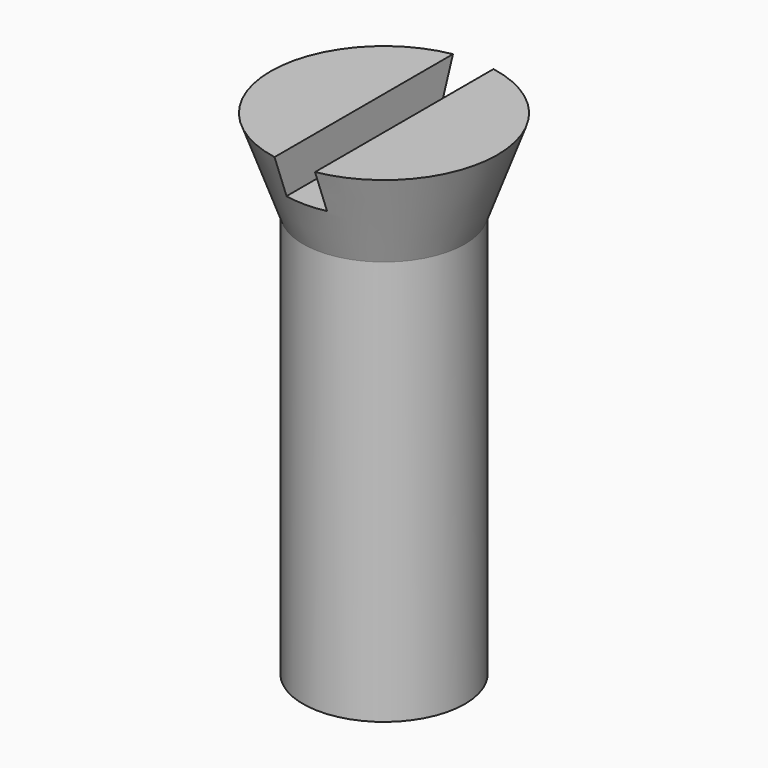
from build123d import *

# Parameters (mm, degrees)
CYLINDER_R     = 2
CYLINDER_DEPTH = 10
BOX_W          = 1
BOX_H          = 10
BOX_DEPTH      = 10


with BuildPart() as cilindre:
    # Cylinder → Cylinder (new body)
    with BuildSketch(Plane.XY):
        Circle(CYLINDER_R)
    extrude(amount=CYLINDER_DEPTH)


with BuildPart() as cub:
    # Box → Box (new body)
    with BuildSketch(Plane(origin=(-0.5, -4, 1.2), x_dir=(1, 0, 0), z_dir=(0, 0, 1))):
        with Locations((0.5, 5)):
            Rectangle(BOX_W, BOX_H)
    extrude(amount=BOX_DEPTH)


with BuildPart() as fusion:
    # Cone → Cone (revolve)
    with BuildSketch(Plane.XZ):
        Polygon((0, 0), (2, 0), (2.8, 2.2), (0, 2.2), align=None)
    revolve(axis=Axis((0, 0, 0), (0, 0, 1)))

    # Cut: cut Cub
    add(cub.part, mode=Mode.SUBTRACT)


with BuildPart() as fusion_1:
    # Cut placement: moved
    add(fusion.part.moved(Location((0, 0, 10))))

    # Fusion: union Cilindre
    add(cilindre.part)


solid = fusion_1.part
